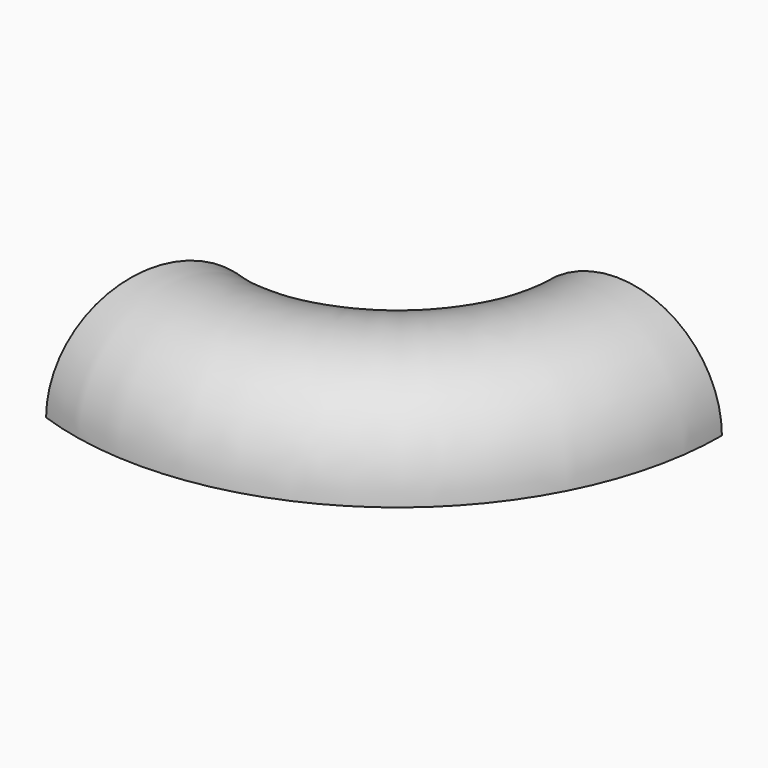
from build123d import *


with BuildPart() as f2:
    # F2: sweep along a path in F1
    with BuildLine(Plane.XY) as f2_path:
        ThreePointArc((0, 0), (-23.152142, -44.808829), (-73.094782, -51.85053))
    # F0 (on Front) → F2 (sweep)
    with BuildSketch(Plane.XZ):
        with BuildLine():
            ThreePointArc((25.256613, 0), (-0.829597, 26.033944), (-26.915807, 0))
            Line((-26.915807, 0), (25.256613, 0))
        make_face()
    sweep(path=f2_path.line)


solid = f2.part
